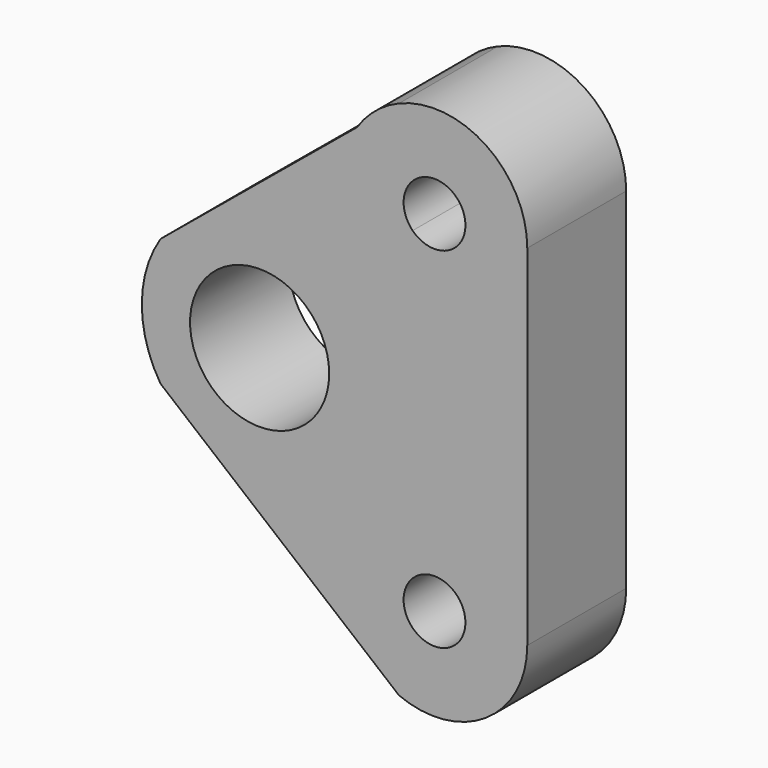
from build123d import *

# Parameters (mm, degrees)
F0_R     = 14.2875
F0_R_2   = 6.35
F1_DEPTH = 25.4


with BuildPart() as f1:
    # F0 (on Front) → F1 (new body)
    with BuildSketch(Plane.XZ):
        with BuildLine():
            ThreePointArc((31.430896, 31.430896), (38.351064, 30.054389), (42.271024, 35.921024))
            ThreePointArc((42.271024, 35.921024), (33.490985, 41.78766), (31.430896, 31.430896))
        make_face()
        with BuildLine():
            Line((54.971024, -35.921024), (54.971024, 35.921024))
            ThreePointArc((54.971024, 35.921024), (46.504637, 51.760521), (28.630905, 53.52093))
            Line((28.630905, 53.52093), (20.02314, 46.416726))
            Line((20.02314, 46.416726), (-20.343486, 13.101145))
            ThreePointArc((-20.343486, 13.101145), (-24.197054, 0), (-20.343486, -13.101145))
            Line((-20.343486, -13.101145), (28.630905, -53.52093))
            ThreePointArc((28.630905, -53.52093), (46.504637, -51.760521), (54.971024, -35.921024))
        make_face()
        Circle(F0_R, mode=Mode.SUBTRACT)
        with Locations((35.921024, -35.921024)):
            Circle(F0_R_2, mode=Mode.SUBTRACT)
        with BuildLine():
            ThreePointArc((31.430896, 31.430896), (33.490985, 41.78766), (42.271024, 35.921024))
            ThreePointArc((42.271024, 35.921024), (38.351064, 30.054389), (31.430896, 31.430896))
        make_face(mode=Mode.SUBTRACT)
        with BuildLine():
            Line((20.02314, 46.416726), (28.630905, 53.52093))
            ThreePointArc((28.630905, 53.52093), (23.795089, 50.613342), (20.02314, 46.416726))
        make_face()
    extrude(amount=F1_DEPTH)


solid = f1.part
